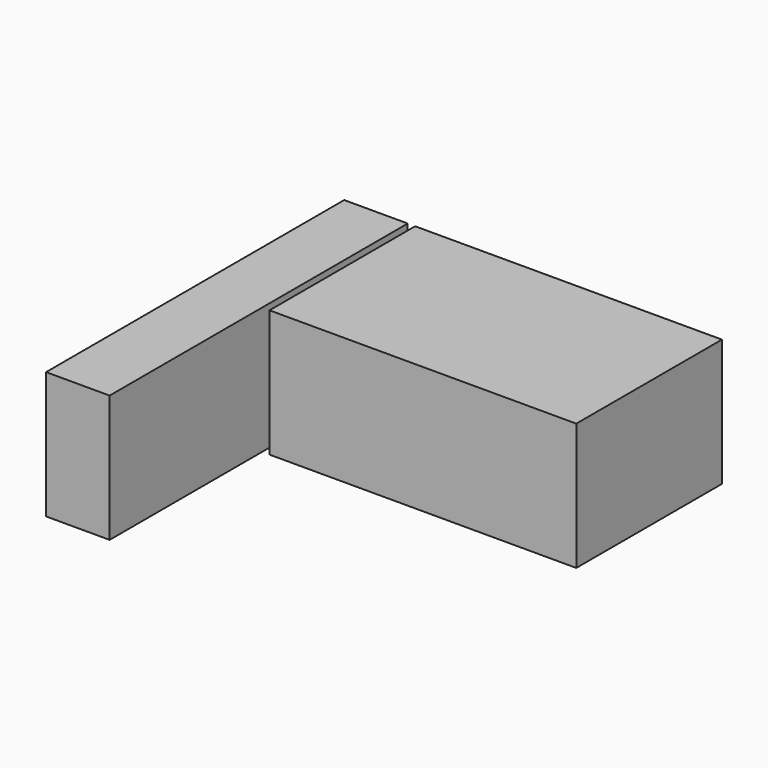
from build123d import *

# Parameters (mm, degrees)
F0_W      = 127
F0_H      = 363.911868
F0_W_2    = 613.248868
F1_DEPTH  = 254
F1_FACE_W = 127
F1_FACE_H = 254
F2_DEPTH  = 381


with BuildPart() as f1:
    # F0 (on Top) → F1 (new body)
    with BuildSketch(Plane.XY):
        with Locations((-384.992974, 0)):
            Rectangle(F0_W, F0_H)
        Rectangle(F0_W_2, F0_H)
    extrude(amount=F1_DEPTH)

    # F1_face (on face) → F2 (join)
    with BuildSketch(Plane(origin=(-384.992974, -181.955934, 127), x_dir=(1, 0, 0), z_dir=(0, -1, 0))):
        Rectangle(F1_FACE_W, F1_FACE_H)
    extrude(amount=F2_DEPTH)


solid = f1.part
